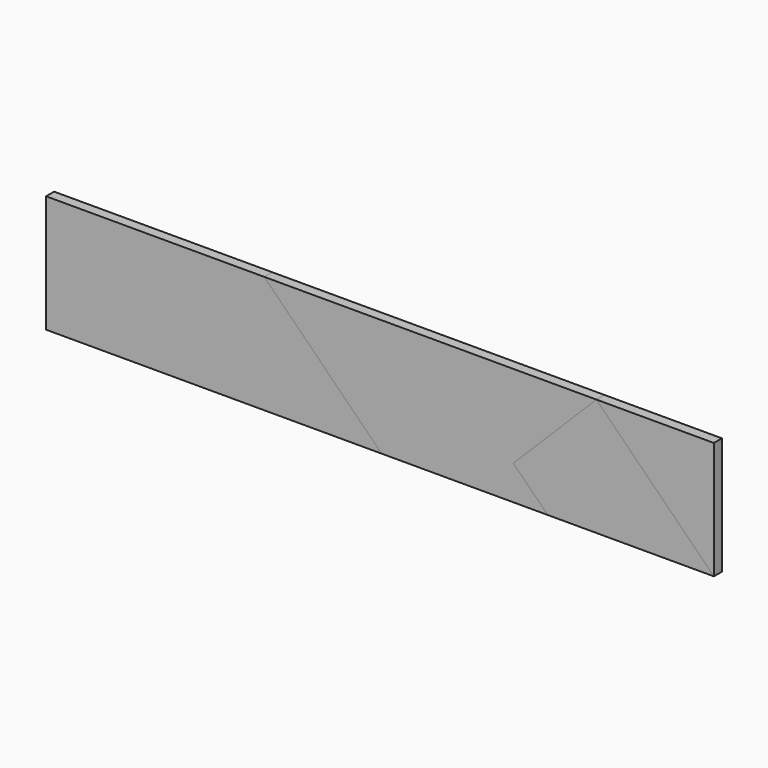
from build123d import *

# Parameters (mm, degrees)
F2_DEPTH = 2.4
F3_DEPTH = 2.4


with BuildPart() as f2:
    # F1 (on Front) → F2 (new body)
    with BuildSketch(Plane.XZ):
        Polygon((52, 0), (0, 0), (0, -28), (80, -28), align=None)
    extrude(amount=F2_DEPTH)


with BuildPart() as f2b:
    # F1 (on Front) → F2, piece 2 (new body)
    with BuildSketch(Plane.XZ):
        Polygon((159.1959594929, -28), (131.1959594929, 0), (111.3969696197, -19.7989898732), (119.5979797464, -28), align=None)
    extrude(amount=F2_DEPTH)


with BuildPart() as f3:
    # F1 (on Front) → F3 (new body)
    with BuildSketch(Plane.XZ):
        Polygon((131.1959594929, 0), (52, 0), (80, -28), (119.5979797464, -28), (111.3969696197, -19.7989898732), align=None)
    extrude(amount=F3_DEPTH)


with BuildPart() as f3b:
    # F1 (on Front) → F3, piece 2 (new body)
    with BuildSketch(Plane.XZ):
        Polygon((159.1959594929, 0), (131.1959594929, 0), (159.1959594929, -28), align=None)
    extrude(amount=F3_DEPTH)


solid = Compound([f2.part, f2b.part, f3.part, f3b.part])
